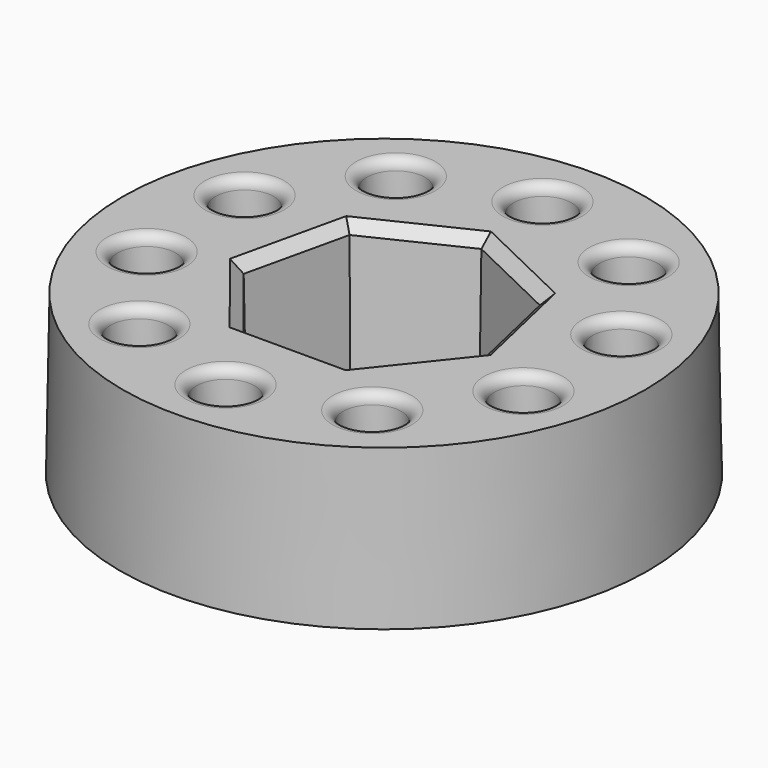
from build123d import *

# Parameters (mm, degrees)
F0_R     = 127
F0_R_2   = 12.7
F1_DEPTH = 76.2
F1_TAPER = 1
F2_SIZE  = 5.08
F3_R     = 5.08


with BuildPart() as f1:
    # F0 (on Top) → F1 (new body)
    with BuildSketch(Plane.XY):
        Circle(F0_R)
        with Locations((-55.9865452809, -77.0588687142)):
            Circle(F0_R_2, mode=Mode.SUBTRACT)
        with Locations((-90.5881331771, -29.4338687142)):
            Circle(F0_R_2, mode=Mode.SUBTRACT)
        with Locations((0, -95.25)):
            Circle(F0_R_2, mode=Mode.SUBTRACT)
        with Locations((55.9865452809, -77.0588687142)):
            Circle(F0_R_2, mode=Mode.SUBTRACT)
        with Locations((90.5881331771, -29.4338687142)):
            Circle(F0_R_2, mode=Mode.SUBTRACT)
        with Locations((-90.5881331771, 29.4338687142)):
            Circle(F0_R_2, mode=Mode.SUBTRACT)
        with Locations((-55.9865452809, 77.0588687142)):
            Circle(F0_R_2, mode=Mode.SUBTRACT)
        Polygon((-44.681669223, 35.6324421762), (0, 57.15), (44.681669223, 35.6324421762), (55.7171301812, -12.7170713756), (24.7964556906, -51.4903708006), (-24.7964556906, -51.4903708006), (-55.7171301812, -12.7170713756), align=None, mode=Mode.SUBTRACT)
        with Locations((90.5881331771, 29.4338687142)):
            Circle(F0_R_2, mode=Mode.SUBTRACT)
        with Locations((55.9865452809, 77.0588687142)):
            Circle(F0_R_2, mode=Mode.SUBTRACT)
        with Locations((0, 95.25)):
            Circle(F0_R_2, mode=Mode.SUBTRACT)
    extrude(amount=F1_DEPTH, taper=F1_TAPER)

    # F2
    f2_edges = [f1.edges().sort_by_distance(p)[0] for p in [
        (22.917933, 47.589578, 76.2),
        (51.496128, 11.753655, 76.2),
        (41.296688, -32.93301, 76.2),
        (0, -52.820447, 76.2),
        (-41.296688, -32.93301, 76.2),
        (-51.496128, 11.753655, 76.2),
        (-22.917933, 47.589578, 76.2),
    ]]
    chamfer(f2_edges, length=F2_SIZE)

    # F3
    f3_edges = [f1.edges().sort_by_distance(p)[0] for p in [
        (76.558057, 29.433869, 76.2),
        (76.558057, -29.433869, 76.2),
        (41.956469, -77.058869, 76.2),
        (-14.030076, -95.25, 76.2),
        (-70.016621, -77.058869, 76.2),
        (-104.618209, -29.433869, 76.2),
        (-104.618209, 29.433869, 76.2),
        (-70.016621, 77.058869, 76.2),
        (-14.030076, 95.25, 76.2),
        (41.956469, 77.058869, 76.2),
    ]]
    fillet(f3_edges, radius=F3_R)


solid = f1.part
